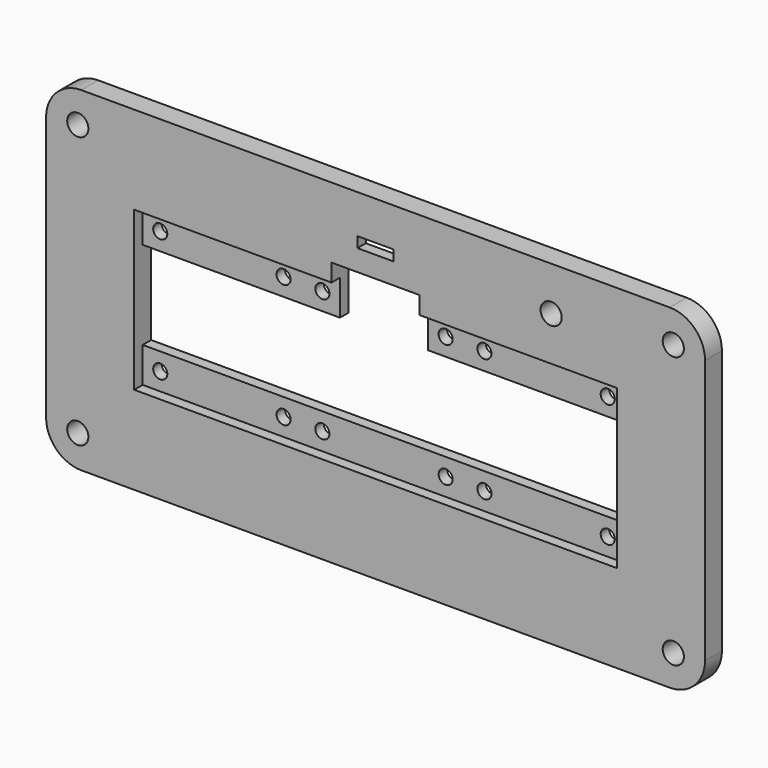
from build123d import *

# Parameters (mm, degrees)
F0_W     = 187
F0_H     = 95
F0_R     = 3
F0_W_2   = 10.25
F0_H_2   = 3
F1_DEPTH = 6
F2_R     = 10
F3_W     = 15
F3_H     = 8
F4_DEPTH = 3
F5_R     = 2
F6_DEPTH = 3


with BuildPart() as f1:
    # F0 (on Front) → F1 (new body)
    with BuildSketch(Plane.XZ):
        Rectangle(F0_W, F0_H)
        with Locations((-84.5, -38.5)):
            Circle(F0_R, mode=Mode.SUBTRACT)
        with Locations((84.5, -38.5)):
            Circle(F0_R, mode=Mode.SUBTRACT)
        Polygon((12.5, 22.5), (68.5, 22.5), (68.5, -22.5), (-68.5, -22.5), (-68.5, 22.5), (-12.5, 22.5), (-12.5, 27.5), (12.5, 27.5), align=None, mode=Mode.SUBTRACT)
        with Locations((-84.5, 38.5)):
            Circle(F0_R, mode=Mode.SUBTRACT)
        with Locations((0, 35)):
            Rectangle(F0_W_2, F0_H_2, mode=Mode.SUBTRACT)
        with Locations((49.831439, 35)):
            Circle(F0_R, mode=Mode.SUBTRACT)
        with Locations((84.5, 38.5)):
            Circle(F0_R, mode=Mode.SUBTRACT)
    extrude(amount=F1_DEPTH)

    # F2
    f2_edges = [f1.edges().sort_by_distance(p)[0] for p in [
        (93.5, -3, -47.5),
        (-93.5, -3, -47.5),
        (-93.5, -3, 47.5),
        (93.5, -3, 47.5),
    ]]
    fillet(f2_edges, radius=F2_R)

    # F3 (on face) → F4 (cut)
    with BuildSketch(Plane(origin=(0, 0, 0), x_dir=(-1, 0, 0), z_dir=(0, 1, 0))):
        with Locations((0, 35)):
            Rectangle(F3_W, F3_H)
    extrude(amount=-F4_DEPTH, mode=Mode.SUBTRACT)

    # F5 (on face) → F6 (join)
    with BuildSketch(Plane(origin=(0, 0, 0), x_dir=(-1, 0, 0), z_dir=(0, 1, 0))):
        Polygon((-12.5, 12.5), (-12.5, 22.5), (-12.5, 27.5), (-75.93517, 27.851377), (-75.93517, 12.5), (-68.5, 12.5), align=None)
        with Locations((-63.5, 17.5)):
            Circle(F5_R, mode=Mode.SUBTRACT)
        with Locations((-28.5, 17.5)):
            Circle(F5_R, mode=Mode.SUBTRACT)
        with Locations((-17.5, 17.5)):
            Circle(F5_R, mode=Mode.SUBTRACT)
        Polygon((71.986005, 27.851377), (12.5, 22.5), (12.5, 12.5), (71.986005, 12.5), align=None)
        with Locations((17.5, 17.5)):
            Circle(F5_R, mode=Mode.SUBTRACT)
        with Locations((28.5, 17.5)):
            Circle(F5_R, mode=Mode.SUBTRACT)
        with Locations((63.5, 17.5)):
            Circle(F5_R, mode=Mode.SUBTRACT)
        Polygon((72.550595, -12.5), (-68.5, -12.5), (-73.253393, -11.935415), (-76.499753, -24.073985), (72.550595, -24.073985), align=None)
        with Locations((-63.5, -17.5)):
            Circle(F5_R, mode=Mode.SUBTRACT)
        with Locations((-28.5, -17.5)):
            Circle(F5_R, mode=Mode.SUBTRACT)
        with Locations((-17.5, -17.5)):
            Circle(F5_R, mode=Mode.SUBTRACT)
        with Locations((17.5, -17.5)):
            Circle(F5_R, mode=Mode.SUBTRACT)
        with Locations((28.5, -17.5)):
            Circle(F5_R, mode=Mode.SUBTRACT)
        with Locations((63.5, -17.5)):
            Circle(F5_R, mode=Mode.SUBTRACT)
    extrude(amount=-F6_DEPTH)


solid = f1.part
